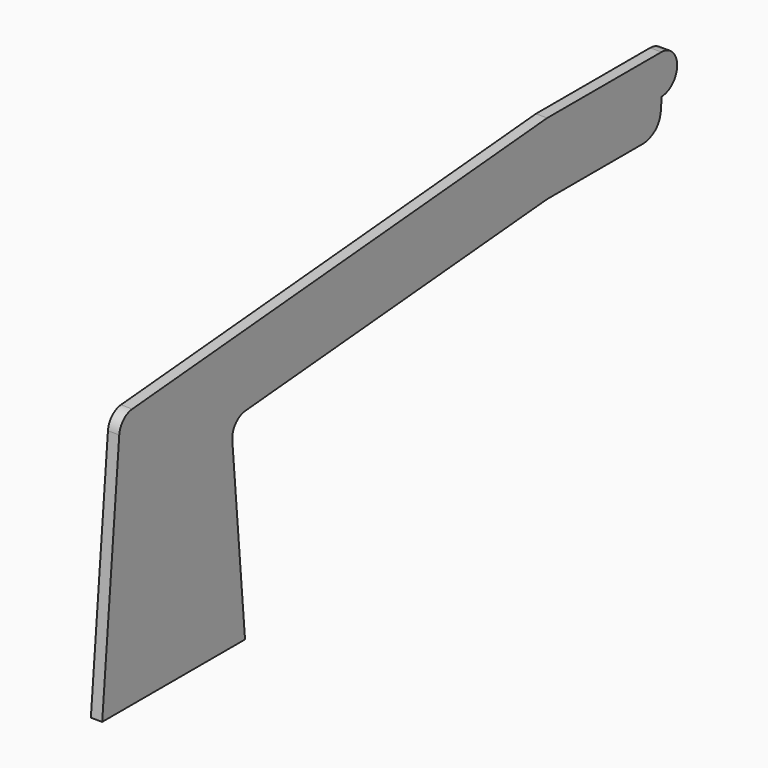
from build123d import *

# Parameters (mm, degrees)
F1_DEPTH = 6.35


with BuildPart() as f1:
    # F0 (on Right) → F1 (new body)
    with BuildSketch(Plane.YZ):
        with BuildLine():
            ThreePointArc((-28.955078, 0.731324), (-35.154588, -2.159556), (-38.045467, -8.359066))
            Line((-38.045467, -8.359066), (-50, -145))
            Line((-50, -145), (50, -145))
            Line((50, -145), (41.091779, -43.178569))
            ThreePointArc((41.091779, -43.178569), (43.393282, -35.879135), (50.182169, -32.345065))
            Line((50.182169, -32.345065), (261.544266, -13.853277))
            Line((261.544266, -13.853277), (329.379022, -13.853277))
            add(Edge.make_bspline(
                [(341.544266, 4.146723), (341.544266, -3.148999), (341.544266, -12.045636), (329.379022, -13.853277)],
                knots=[0, 0, 0, 0, 21.725403, 21.725403, 21.725403, 21.725403], degree=3))
            Line((341.544266, 4.146723), (341.544266, 26.146723))
            Line((341.544266, 26.146723), (261.544266, 26.146723))
            Line((261.544266, 26.146723), (-28.955078, 0.731324))
        make_face()
        with BuildLine():
            ThreePointArc((341.544266, 4.146723), (352.544266, 15.146723), (341.544266, 26.146723))
            Line((341.544266, 26.146723), (341.544266, 4.146723))
        make_face()
    extrude(amount=F1_DEPTH)


solid = f1.part
